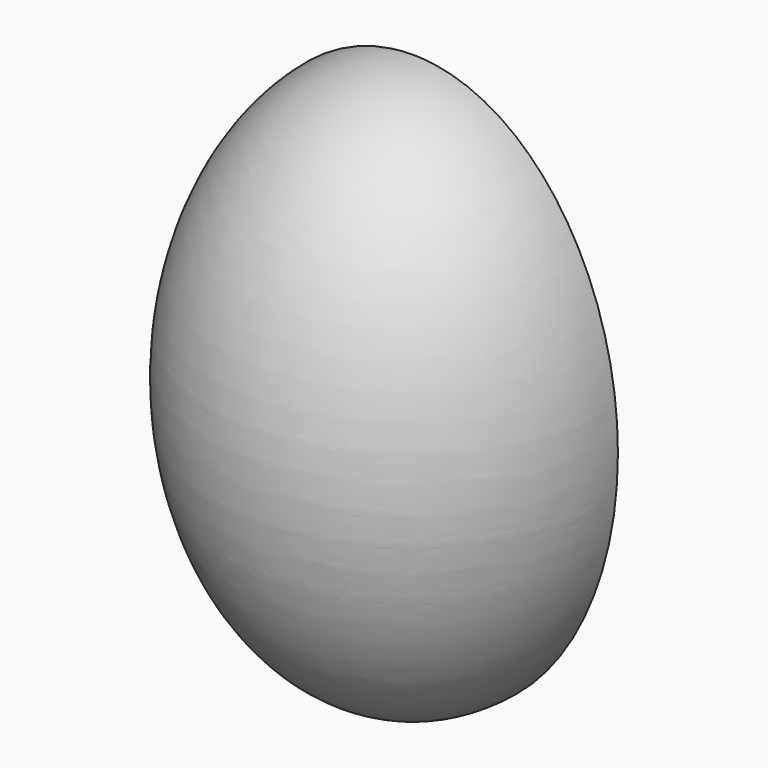
from build123d import *

# Parameters (mm, degrees)
F1_ANGLE = 180


with BuildPart() as f1:
    # F0 (on Front) → F1 (revolve)
    with BuildSketch(Plane.XZ):
        with BuildLine():
            Line((0, -160), (0, -180))
            add(Edge.make_bspline(
                [(0, -180), (130, -180), (130, 0), (130, 180), (0, 180)],
                knots=[0, 0, 0, 1.5707963268, 1.5707963268, 3.1415926536, 3.1415926536, 3.1415926536], degree=2, weights=[1, 0.7071067812, 1, 0.7071067812, 1]))
            Line((0, 180), (0, 160))
            add(Edge.make_bspline(
                [(0, -160), (100, -160), (100, 0), (100, 160), (0, 160)],
                knots=[3.1415926536, 3.1415926536, 3.1415926536, 4.7123889804, 4.7123889804, 6.2831853072, 6.2831853072, 6.2831853072], degree=2, weights=[1, 0.7071067812, 1, 0.7071067812, 1]))
        make_face()
    revolve(axis=Axis((0, 0, 170), (0, 0, -1)), revolution_arc=F1_ANGLE)


solid = f1.part
